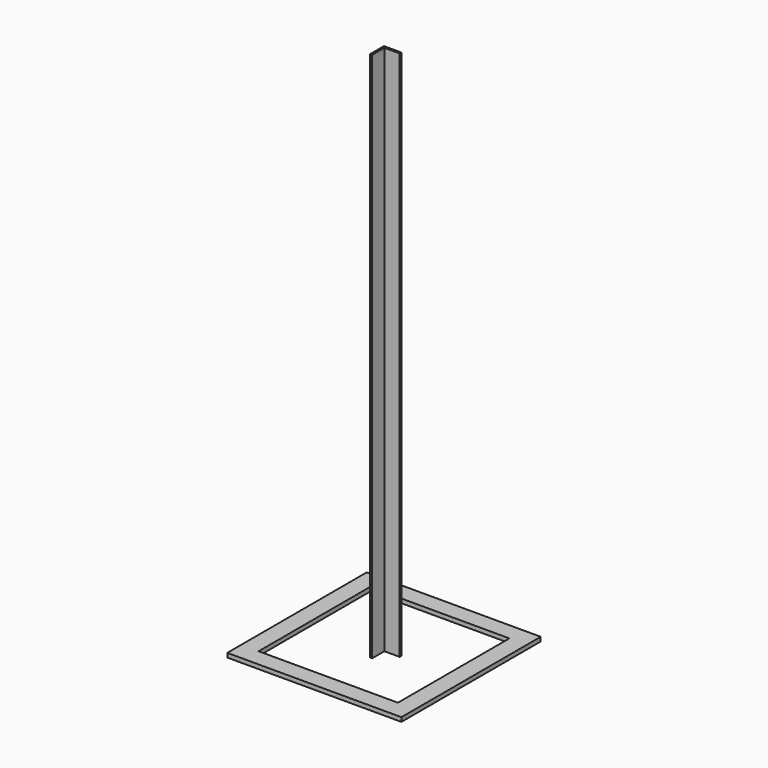
from build123d import *

# Parameters (mm, degrees)
F1_DEPTH = 1525.397
F2_W     = 500
F2_H     = 500
F2_W_2   = 400
F2_H_2   = 400
F3_DEPTH = 12


with BuildPart() as f1:
    # F0 (on Top) → F1 (new body)
    with BuildSketch(Plane.XY):
        Polygon((50, 0), (0, 0), (0, -50), (5.999869, -49.96033), (5.709208, -6), (50, -6), align=None)
    extrude(amount=F1_DEPTH)


with BuildPart() as f3:
    # F2 (on Top) → F3 (new body)
    with BuildSketch(Plane.XY):
        Rectangle(F2_W, F2_H)
        Rectangle(F2_W_2, F2_H_2, mode=Mode.SUBTRACT)
    extrude(amount=F3_DEPTH)


solid = Compound([f1.part, f3.part])
